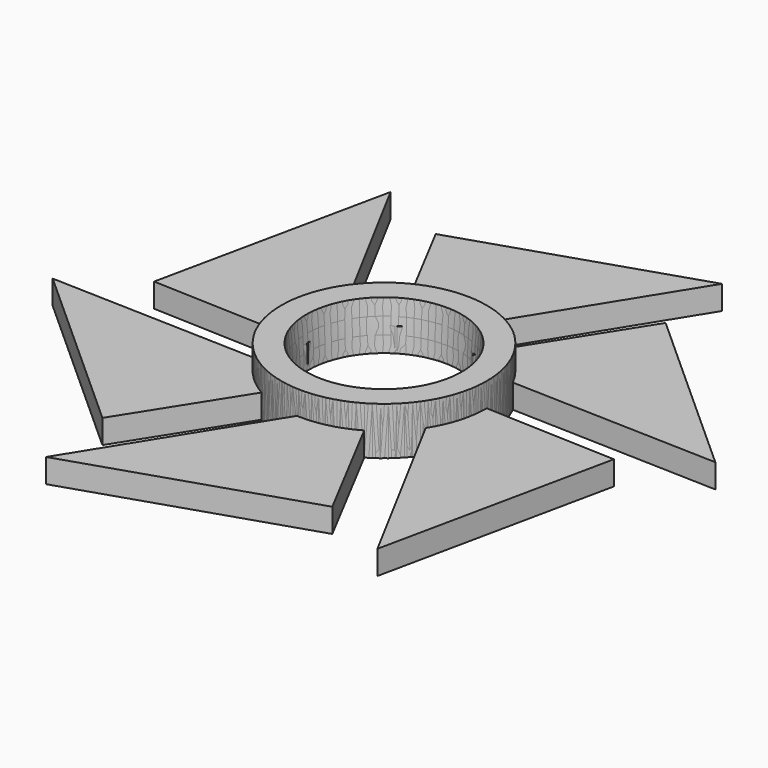
from build123d import *

# Parameters (mm, degrees)
F0_R     = 15
F3_DEPTH = 7
F1_R     = 11
F4_DEPTH = 7.001
F4_TAPER = -3
F5_DEPTH = 3.5
F6_COUNT = 6


with BuildPart() as f3:
    # F0 (on Top) → F3 (new body)
    with BuildSketch(Plane.XY):
        Circle(F0_R)
    extrude(amount=F3_DEPTH)

    # F1 (on Top) → F4 (cut, through all)
    with BuildSketch(Plane.XY):
        Circle(F1_R)
    extrude(amount=F4_DEPTH, taper=F4_TAPER, mode=Mode.SUBTRACT)

    # F2 (on Top) → F5 (join)
    with BuildSketch(Plane.XY):
        with BuildLine():
            Line((-16.4407994598, 29.9978945404), (-5.6364946067, 9.437751025))
            ThreePointArc((-5.6364946067, 9.437751025), (-0.3052320815, 11.534799778), (5.1337555051, 9.7355255857))
            Line((5.1337555051, 9.7355255857), (0, 13.7744089589))
            Line((0, 13.7744089589), (16.7445833795, 40.793013759))
            Line((16.7445833795, 40.793013759), (-16.4407994598, 29.9978945404))
        make_face()
    extrude(amount=F5_DEPTH)


with BuildPart() as f6_1:
    # F6: instance of F3
    add(f3.part.rotate(Axis((0, 0, 7), (0, 0, -1)), 1 * 360 / F6_COUNT))


with BuildPart() as f6_2:
    # F6: instance of F3
    add(f3.part.rotate(Axis((0, 0, 7), (0, 0, -1)), 2 * 360 / F6_COUNT))


with BuildPart() as f6_3:
    # F6: instance of F3
    add(f3.part.rotate(Axis((0, 0, 7), (0, 0, -1)), 3 * 360 / F6_COUNT))


with BuildPart() as f6_4:
    # F6: instance of F3
    add(f3.part.rotate(Axis((0, 0, 7), (0, 0, -1)), 4 * 360 / F6_COUNT))


with BuildPart() as f6_5:
    # F6: instance of F3
    add(f3.part.rotate(Axis((0, 0, 7), (0, 0, -1)), 5 * 360 / F6_COUNT))


solid = Compound([f3.part, f6_1.part, f6_2.part, f6_3.part, f6_4.part, f6_5.part])
